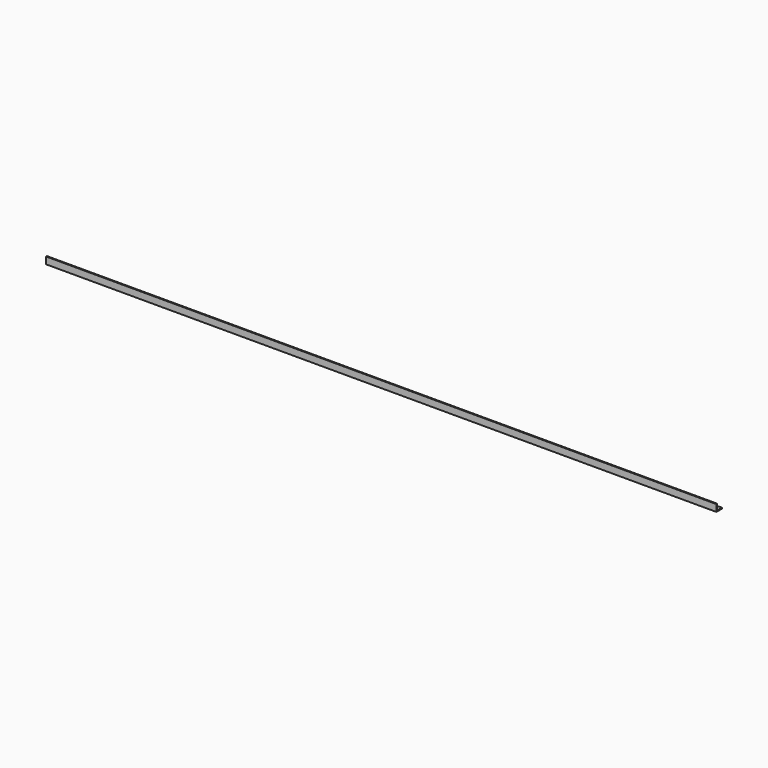
from build123d import *

# Parameters (mm, degrees)
F0_W     = 0.889
F0_H     = 5.461
F0_W_2   = 5.461
F0_H_2   = 0.889
F1_DEPTH = 615.95
F2_R     = 1.265785
F2_R_2   = 1.268763
F3_DEPTH = 25.4


with BuildPart() as f1:
    # F0 (on Right) → F1 (new body)
    with BuildSketch(Plane.YZ):
        with Locations((0.4445, 3.6195)):
            Rectangle(F0_W, F0_H)
        with Locations((3.6195, 0.4445)):
            Rectangle(F0_W_2, F0_H_2)
        with Locations((0.4445, 0.4445)):
            Rectangle(F0_W, F0_H_2)
    extrude(amount=F1_DEPTH)

    # F2 (on face) → F3 (cut)
    with BuildSketch(Plane.XY.offset(0.889)):
        with Locations((606.856287, 3.6195)):
            Circle(F2_R)
        with Locations((2.748992, 3.6195)):
            Circle(F2_R_2)
    extrude(amount=-F3_DEPTH, mode=Mode.SUBTRACT)


solid = f1.part
